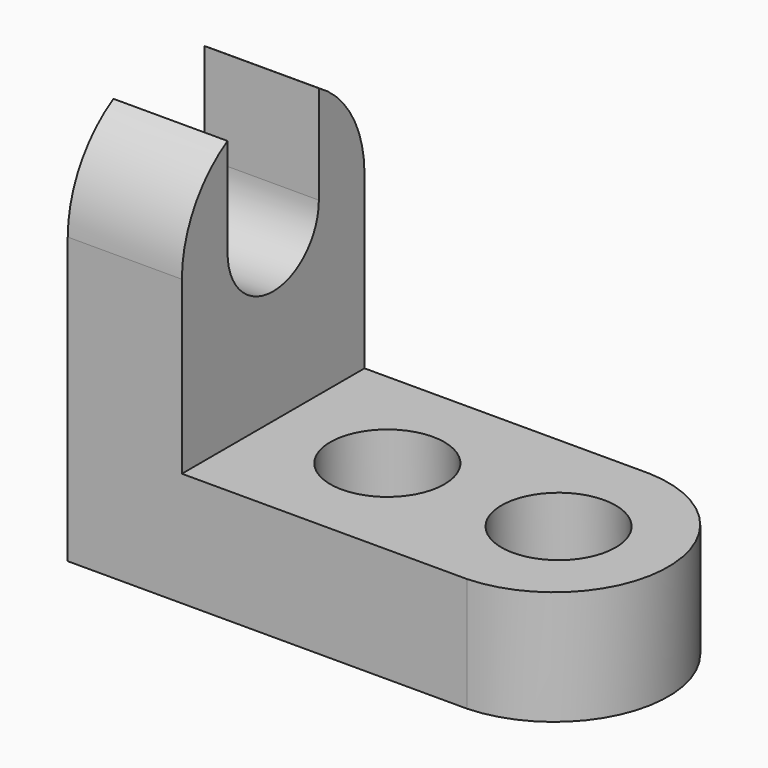
from build123d import *

# Parameters (mm, degrees)
F0_W     = 12.7
F0_H     = 31.75
F0_H_2   = 12.7
F0_W_2   = 44.45
F1_DEPTH = 25.4
F2_R     = 6.35
F3_DEPTH = 25.4
F5_DEPTH = 25.4


with BuildPart() as f1:
    # F0 (on Front) → F1 (new body)
    with BuildSketch(Plane.XZ):
        with Locations((6.35, 28.575)):
            Rectangle(F0_W, F0_H)
        with Locations((6.35, 6.35)):
            Rectangle(F0_W, F0_H_2)
        with Locations((34.925, 6.35)):
            Rectangle(F0_W_2, F0_H_2)
    extrude(amount=F1_DEPTH)

    # F2 (on face) → F3 (cut)
    with BuildSketch(Plane.XY.offset(12.7)):
        with Locations((25.4, -12.7)):
            Circle(F2_R)
        with Locations((44.45, -12.7)):
            Circle(F2_R)
        with BuildLine():
            ThreePointArc((44.45, 0), (56.6503530986, -12.7), (44.45, -25.4))
            Line((44.45, -25.4), (57.15, -25.4))
            Line((57.15, -25.4), (57.15, 0))
            Line((57.15, 0), (44.45, 0))
        make_face()
    extrude(amount=-F3_DEPTH, mode=Mode.SUBTRACT)

    # F4 (on face) → F5 (cut)
    with BuildSketch(Plane.YZ.offset(12.7)):
        with BuildLine():
            ThreePointArc((-19.05, 31.75), (-12.7, 25.4), (-6.35, 31.75))
            ThreePointArc((-6.35, 31.75), (-12.7, 38.1), (-19.05, 31.75))
        make_face()
        with BuildLine():
            ThreePointArc((-19.05, 31.75), (-12.7, 38.1), (-6.35, 31.75))
            Line((-6.35, 31.75), (-6.35, 42.7141417))
            ThreePointArc((-6.35, 42.7141417), (-12.7, 44.41561185), (-19.05, 42.7141417))
            Line((-19.05, 42.7141417), (-19.05, 31.75))
        make_face()
        with BuildLine():
            ThreePointArc((-25.4, 31.75), (-23.6899374795, 38.0805050685), (-19.05, 42.7141417))
            Line((-19.05, 42.7141417), (-19.05, 44.45))
            Line((-19.05, 44.45), (-25.4, 44.45))
            Line((-25.4, 44.45), (-25.4, 31.75))
        make_face()
        with BuildLine():
            ThreePointArc((-19.05, 42.7141417), (-12.7, 44.41561185), (-6.35, 42.7141417))
            Line((-6.35, 42.7141417), (-6.35, 44.45))
            Line((-6.35, 44.45), (-19.05, 44.45))
            Line((-19.05, 44.45), (-19.05, 42.7141417))
        make_face()
        with BuildLine():
            Line((-6.35, 44.45), (-6.35, 42.7141417))
            ThreePointArc((-6.35, 42.7141417), (-1.7100625205, 38.0805050685), (0, 31.75))
            Line((0, 31.75), (0, 44.45))
            Line((0, 44.45), (-6.35, 44.45))
        make_face()
    extrude(amount=-F5_DEPTH, mode=Mode.SUBTRACT)


solid = f1.part
